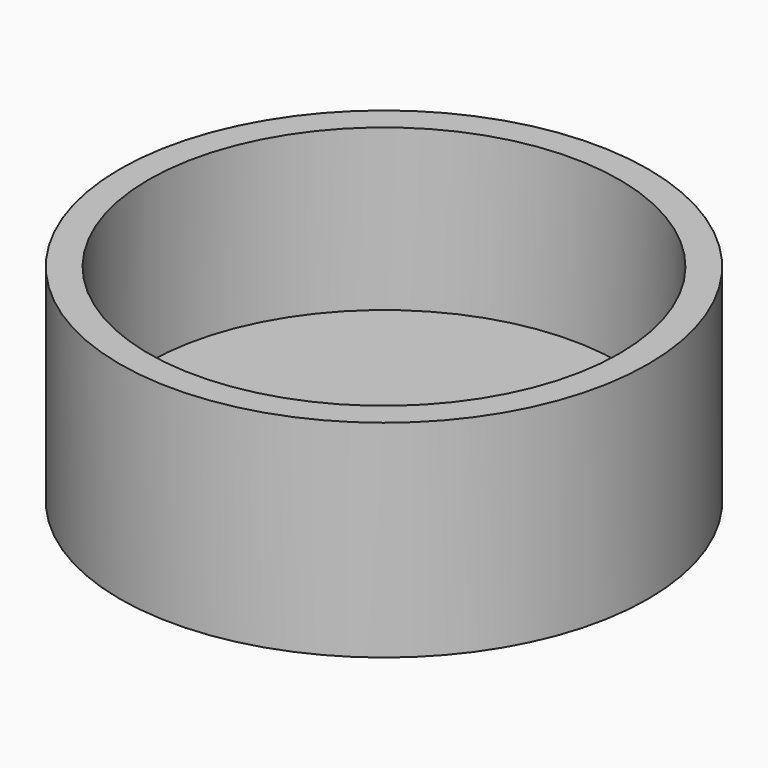
from build123d import *

# Parameters (mm, degrees)
F0_R     = 11.5
F1_DEPTH = 2
F2_R     = 11.5
F2_R_2   = 10.25
F3_DEPTH = 7
F2_R_3   = 1.55
F4_DEPTH = 25


with BuildPart() as f1:
    # F0 (on Top) → F1 (new body)
    with BuildSketch(Plane.XY):
        Circle(F0_R)
    extrude(amount=F1_DEPTH)

    # F2 (on face) → F3 (join)
    with BuildSketch(Plane.XY.offset(2)):
        Circle(F2_R)
        Circle(F2_R_2, mode=Mode.SUBTRACT)
    extrude(amount=F3_DEPTH)

    # F2 (on face) → F4 (cut)
    with BuildSketch(Plane.XY.offset(2)):
        Circle(F2_R_3)
    extrude(amount=-F4_DEPTH, mode=Mode.SUBTRACT)


solid = f1.part
